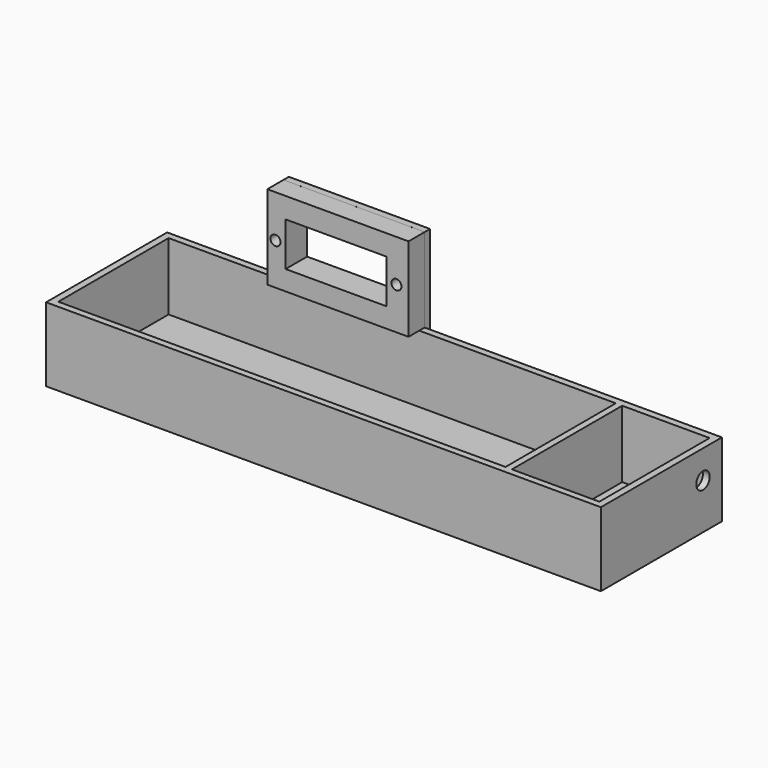
from build123d import *

# Parameters (mm, degrees)
SKETCH_W        = 165
SKETCH_H        = 45
PAD_DEPTH       = 22
SKETCH001_W     = 133
SKETCH001_H     = 41
POCKET_DEPTH    = 20
SKETCH002_W     = 26
SKETCH002_H     = 41
POCKET001_DEPTH = 20
SKETCH003_W     = 42
SKETCH003_H     = 47
PAD001_DEPTH    = 2
SKETCH008_W     = 42
SKETCH008_H     = 25
PAD002_DEPTH    = 6
SKETCH005_W     = 30
SKETCH005_H     = 13
POCKET002_DEPTH = 8.001
SKETCH009_R     = 1.5
POCKET003_DEPTH = 8.001
SKETCH007_R     = 2.5
POCKET004_DEPTH = 5


with BuildPart() as part:
    # Sketch → Pad (new body)
    with BuildSketch(Plane.XY):
        with Locations((82.5, 22.5)):
            Rectangle(SKETCH_W, SKETCH_H)
    extrude(amount=PAD_DEPTH)

    # Sketch001 → Pocket (cut)
    with BuildSketch(Plane.XY.offset(22)):
        with Locations((68.54825, 22.488898)):
            Rectangle(SKETCH001_W, SKETCH001_H)
    extrude(amount=-POCKET_DEPTH, mode=Mode.SUBTRACT)

    # Sketch002 → Pocket001 (cut)
    with BuildSketch(Plane.XY.offset(22)):
        with Locations((149.979632, 22.458033)):
            Rectangle(SKETCH002_W, SKETCH002_H)
    extrude(amount=-POCKET001_DEPTH, mode=Mode.SUBTRACT)

    # Sketch003 → Pad001 (new body)
    with BuildSketch(Plane(origin=(0, 45, 0), x_dir=(-1, 0, 0), z_dir=(0, 1, 0))):
        with Locations((-55.599999, 23.509954)):
            Rectangle(SKETCH003_W, SKETCH003_H)
    extrude(amount=PAD001_DEPTH)

    # Sketch008 → Pad002 (new body)
    with BuildSketch(Plane.XZ.offset(-45)):
        with Locations((55.598549, 34.508675)):
            Rectangle(SKETCH008_W, SKETCH008_H)
    extrude(amount=PAD002_DEPTH)

    # Sketch005 → Pocket002 (cut, through all)
    with BuildSketch(Plane.XZ.offset(-39)):
        with Locations((55.035654, 34.372233)):
            Rectangle(SKETCH005_W, SKETCH005_H)
    extrude(amount=-POCKET002_DEPTH, mode=Mode.SUBTRACT)

    # Sketch009 → Pocket003 (cut, through all)
    with BuildSketch(Plane.XZ.offset(-39)):
        with Locations((37.021919, 34.390724)):
            Circle(SKETCH009_R)
        with Locations((72.989189, 34.493778)):
            Circle(SKETCH009_R)
    extrude(amount=-POCKET003_DEPTH, mode=Mode.SUBTRACT)

    # Sketch007 → Pocket004 (cut)
    with BuildSketch(Plane.YZ.offset(165)):
        with Locations((37.952961, 13.56812)):
            Circle(SKETCH007_R)
    extrude(amount=-POCKET004_DEPTH, mode=Mode.SUBTRACT)


solid = part.part
